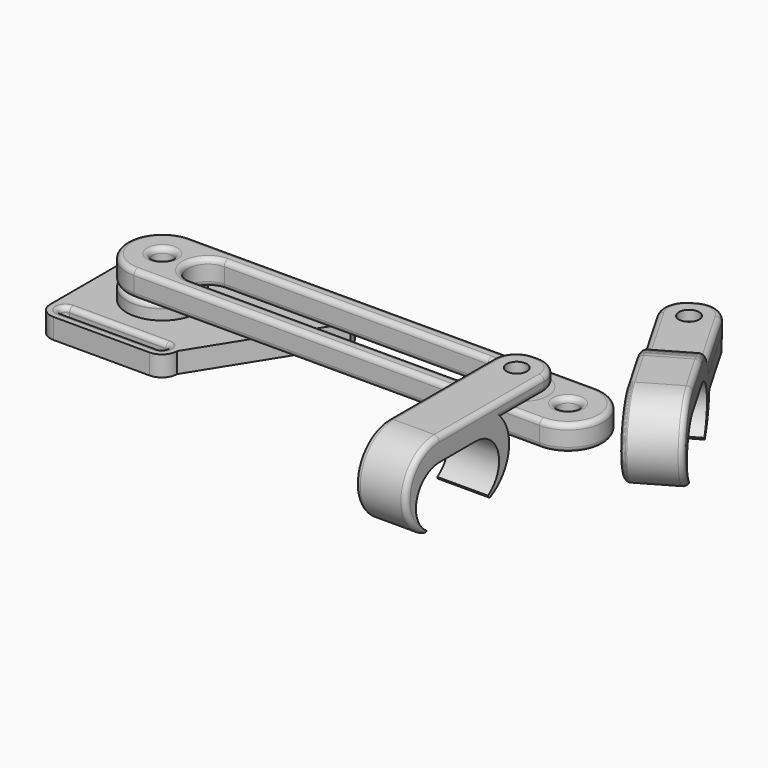
from build123d import *

# Parameters (mm, degrees)
SKETCH_R                = 4.5
PAD_DEPTH               = 4
SKETCH001_R             = 7
SKETCH001_R_2           = 2
PAD001_DEPTH            = 3
FILLET_R                = 0.9
FILLET001_R             = 1
SKETCH002_R             = 2
PAD002_DEPTH            = 5
FILLET002_R             = 1
PAD003_DEPTH            = 10
SKETCH004_R             = 2
POCKET_DEPTH            = 5
FILLET003_R             = 4.5
FILLET004_R             = 1
PAD004_DEPTH            = 10
PAD005_DEPTH            = 10
SKETCH007_R             = 2
POCKET001_DEPTH         = 5
FILLET005_R             = 4.5
FILLET006_R             = 1
BODY003_PLACEMENT_ANGLE = 210
PAD006_DEPTH            = 10
PAD007_DEPTH            = 10
SKETCH009_R             = 2
POCKET002_DEPTH         = 5
FILLET007_R             = 4.5
FILLET008_R             = 1
BODY004_PLACEMENT_ANGLE = 210
SKETCH011_R             = 4.5
PAD009_DEPTH            = 4
SKETCH012_R             = 7
SKETCH012_R_2           = 2
PAD008_DEPTH            = 3
FILLET009_R             = 1
SKETCH013_R             = 2
PAD010_DEPTH            = 5
FILLET010_R             = 1


with BuildPart() as strap_mount:
    # Sketch → Pad (new body)
    with BuildSketch(Plane.XY):
        with BuildLine():
            Line((0, 3), (0, 27))
            ThreePointArc((3, 30), (0.87868, 29.12132), (0, 27))
            Line((3, 30), (22, 30))
            ThreePointArc((25, 27), (24.12132, 29.12132), (22, 30))
            Line((25, 27), (25, 3))
            ThreePointArc((22, 0), (24.12132, 0.87868), (25, 3))
            Line((22, 0), (3, 0))
            ThreePointArc((0, 3), (0.87868, 0.87868), (3, 0))
        make_face()
        with Locations((12.5, 15)):
            Circle(SKETCH_R, mode=Mode.SUBTRACT)
        with BuildLine():
            ThreePointArc((3, 4), (2, 3), (3, 2))
            Line((3, 2), (22, 2))
            ThreePointArc((22, 2), (23, 3), (22, 4))
            Line((3, 4), (22, 4))
        make_face(mode=Mode.SUBTRACT)
        with BuildLine():
            ThreePointArc((3, 28), (2, 27), (3, 26))
            Line((3, 26), (22, 26))
            ThreePointArc((22, 26), (23, 27), (22, 28))
            Line((3, 28), (22, 28))
        make_face(mode=Mode.SUBTRACT)
    extrude(amount=PAD_DEPTH)

    # Sketch001 (on Face19 of Pad) → Pad001 (join)
    with BuildSketch(Plane.XY.offset(4)):
        with Locations((12.5, 15)):
            Circle(SKETCH001_R)
        with Locations((12.5, 15)):
            Circle(SKETCH001_R_2, mode=Mode.SUBTRACT)
    extrude(amount=PAD001_DEPTH)

    # Fillet
    fillet_edges = [strap_mount.edges().sort_by_distance(p)[0] for p in [
        (12.5, 28, 0),
        (23, 27, 4),
        (23, 3, 4),
        (23, 3, 0),
        (5.5, 15, 7),
        (10.5, 15, 4),
    ]]
    fillet(fillet_edges, radius=FILLET_R)

    # Fillet001
    fillet001_edges = [strap_mount.edges().sort_by_distance(p)[0] for p in [
        (25, 15, 4),
        (0, 15, 0),
        (8, 15, 0),
    ]]
    fillet(fillet001_edges, radius=FILLET001_R)


with BuildPart() as arm:
    # Sketch002 → Pad002 (new body)
    with BuildSketch(Plane.XY):
        with BuildLine():
            ThreePointArc((0, 7), (-7, 0), (0, -7))
            Line((70, -7), (0, -7))
            ThreePointArc((70, -7), (77, 0), (70, 7))
            Line((0, 7), (70, 7))
        make_face()
        Circle(SKETCH002_R, mode=Mode.SUBTRACT)
        with Locations((70, 0)):
            Circle(SKETCH002_R, mode=Mode.SUBTRACT)
        with BuildLine():
            ThreePointArc((9, 4), (5, 0), (9, -4))
            Line((9, -4), (61, -4))
            ThreePointArc((61, -4), (65, 0), (61, 4))
            Line((9, 4), (61, 4))
        make_face(mode=Mode.SUBTRACT)
    extrude(amount=PAD002_DEPTH)

    # Fillet002
    fillet002_edges = [arm.edges().sort_by_distance(p)[0] for p in [
        (35, 4, 5),
        (-7, 0, 5),
        (-2, 0, 5),
        (68, 0, 5),
        (35, -7, 0),
        (35, -4, 0),
    ]]
    fillet(fillet002_edges, radius=FILLET002_R)


with BuildPart() as arm_1:
    # Body001 placement: moved
    add(arm.part.moved(Location((12.5, 15, 7))))


with BuildPart() as obj1:
    # Sketch003 → Pad003 (new body)
    with BuildSketch(Plane.YZ):
        with BuildLine():
            ThreePointArc((0, 0), (-5.534812, -4.191681), (-3, -10.655354))
            ThreePointArc((-3.5, -11.155354), (-3.146447, -11.008908), (-3, -10.655354))
            ThreePointArc((0, 4.5), (-8.020912, -1.925716), (-3.5, -11.155354))
            Line((0, 4.5), (30.349291, 4.5))
            Line((30.349291, 4.5), (30.349291, 1.5))
            Line((15.349291, 1.5), (30.349291, 1.5))
            ThreePointArc((12.5, -11.155354), (17.018206, -5.524177), (15.349291, 1.5))
            ThreePointArc((12, -10.655354), (12.146447, -11.008908), (12.5, -11.155354))
            ThreePointArc((12, -10.655354), (14.534812, -4.191681), (9, 0))
            Line((0, 0), (9, 0))
        make_face()
    extrude(amount=PAD003_DEPTH)

    # Sketch004 (on Face8 of Pad003) → Pocket (cut)
    with BuildSketch(Plane.YX.offset(-1.5)):
        with Locations((25.349291, 5)):
            Circle(SKETCH004_R)
    extrude(amount=-POCKET_DEPTH, mode=Mode.SUBTRACT)

    # Fillet003
    fillet003_edges = [obj1.edges().sort_by_distance(p)[0] for p in [
        (0, 30.349291, 3),
        (10, 30.349291, 3),
    ]]
    fillet(fillet003_edges, radius=FILLET003_R)

    # Fillet004
    fillet004_edges = [obj1.edges().sort_by_distance(p)[0] for p in [
        (10, 12.924646, 4.5),
        (10, 20.599291, 1.5),
    ]]
    fillet(fillet004_edges, radius=FILLET004_R)


with BuildPart() as obj1_1:
    # Body002 placement: moved
    add(obj1.part.moved(Location((77.5, -10.5, 10.5))))


with BuildPart() as obj2:
    # Sketch005 → Pad004 (new body)
    with BuildSketch(Plane.YZ):
        with BuildLine():
            ThreePointArc((0, 0), (-5.534812, -4.191681), (-3, -10.655354))
            ThreePointArc((-3.5, -11.155354), (-3.146447, -11.008908), (-3, -10.655354))
            ThreePointArc((0, 4.5), (-8.020912, -1.925716), (-3.5, -11.155354))
            Line((0, 4.5), (9.000023, 4.5))
            ThreePointArc((12.5, -11.155354), (17.020914, -1.925728), (9.000023, 4.5))
            ThreePointArc((12, -10.655354), (12.146447, -11.008908), (12.5, -11.155354))
            ThreePointArc((12, -10.655354), (14.534812, -4.191681), (9, 0))
            Line((0, 0), (9, 0))
        make_face()
    extrude(amount=PAD004_DEPTH)

    # Sketch006 (on Face9 of Pad004) → Pad005 (join)
    with BuildSketch(Plane(origin=(0, 0, 0), x_dir=(0, 1, 0), z_dir=(-1, 0, 0))):
        with BuildLine():
            ThreePointArc((-8.218917, 3.718917), (-7.78342, 1.079037), (-6.523082, -1.281083))
            Line((-6.523082, -1.281083), (-25.218917, -1.281083))
            Line((-25.218917, 3.718917), (-25.218917, -1.281083))
            Line((-8.218917, 3.718917), (-25.218917, 3.718917))
        make_face()
    extrude(amount=-PAD005_DEPTH)

    # Sketch007 (on Face14 of Pad005) → Pocket001 (cut)
    with BuildSketch(Plane(origin=(0, 0, 1.281083), x_dir=(0, -1, 0), z_dir=(0, 0, 1))):
        with Locations((20.218917, 5)):
            Circle(SKETCH007_R)
    extrude(amount=-POCKET001_DEPTH, mode=Mode.SUBTRACT)

    # Fillet005
    fillet005_edges = [obj2.edges().sort_by_distance(p)[0] for p in [
        (0, -25.218917, -1.218917),
        (10, -25.218917, -1.218917),
    ]]
    fillet(fillet005_edges, radius=FILLET005_R)

    # Fillet006
    fillet006_edges = [obj2.edges().sort_by_distance(p)[0] for p in [
        (10, -13.620999, 1.281083),
        (10, -14.468917, -3.718917),
        (10, 4.500011, 4.5),
        (0, 4.500011, 4.5),
    ]]
    fillet(fillet006_edges, radius=FILLET006_R)


with BuildPart() as obj2_1:
    # Body003 placement: moved
    add(obj2.part.moved(Location((124.583648, 7.75, 28.5))).rotate(Axis((124.583648, 7.75, 28.5), (0, 0, 1)), BODY003_PLACEMENT_ANGLE))


with BuildPart() as obj3:
    # Sketch008 → Pad006 (new body)
    with BuildSketch(Plane.YZ):
        with BuildLine():
            ThreePointArc((0, 0), (-5.534812, -4.191681), (-3, -10.655354))
            ThreePointArc((-3.5, -11.155354), (-3.146447, -11.008908), (-3, -10.655354))
            ThreePointArc((0, 4.5), (-8.020912, -1.925716), (-3.5, -11.155354))
            Line((0, 4.5), (9.000023, 4.5))
            ThreePointArc((12.5, -11.155354), (17.020914, -1.925728), (9.000023, 4.5))
            ThreePointArc((12, -10.655354), (12.146447, -11.008908), (12.5, -11.155354))
            ThreePointArc((12, -10.655354), (14.534812, -4.191681), (9, 0))
            Line((0, 0), (9, 0))
        make_face()
    extrude(amount=PAD006_DEPTH)

    # Sketch010 (on Face9 of Pad006) → Pad007 (join)
    with BuildSketch(Plane(origin=(0, 0, 0), x_dir=(0, 1, 0), z_dir=(-1, 0, 0))):
        with BuildLine():
            ThreePointArc((-7.971863, 5.718917), (-8.202133, 3.193937), (-7.651836, 0.718917))
            Line((-7.651836, 0.718917), (-24.971863, 0.718917))
            Line((-24.971863, 5.718917), (-24.971863, 0.718917))
            Line((-7.971863, 5.718917), (-24.971863, 5.718917))
        make_face()
    extrude(amount=-PAD007_DEPTH)

    # Sketch009 (on Face14 of Pad007) → Pocket002 (cut)
    with BuildSketch(Plane(origin=(0, 0, -0.718917), x_dir=(0, -1, 0), z_dir=(0, 0, 1))):
        with Locations((19.971863, 5)):
            Circle(SKETCH009_R)
    extrude(amount=-POCKET002_DEPTH, mode=Mode.SUBTRACT)

    # Fillet007
    fillet007_edges = [obj3.edges().sort_by_distance(p)[0] for p in [
        (0, -24.971863, -3.218917),
        (10, -24.971863, -3.218917),
    ]]
    fillet(fillet007_edges, radius=FILLET007_R)

    # Fillet008
    fillet008_edges = [obj3.edges().sort_by_distance(p)[0] for p in [
        (10, -14.06185, -0.718917),
        (10, -14.221863, -5.718917),
        (10, 4.500011, 4.5),
        (0, 4.500011, 4.5),
    ]]
    fillet(fillet008_edges, radius=FILLET008_R)


with BuildPart() as obj3_1:
    # Body004 placement: moved
    add(obj3.part.moved(Location((124.583648, 7.75, 28.5))).rotate(Axis((124.583648, 7.75, 28.5), (0, 0, 1)), BODY004_PLACEMENT_ANGLE))


with BuildPart() as v1_1strap_mount:
    # Sketch011 → Pad009 (new body)
    with BuildSketch(Plane.XY):
        with BuildLine():
            Line((0, 3), (0, 27))
            ThreePointArc((3, 30), (0.87868, 29.12132), (0, 27))
            Line((3, 30), (37, 30))
            ThreePointArc((40, 27), (39.12132, 29.12132), (37, 30))
            Line((40, 27), (25, 3))
            ThreePointArc((22, 0), (24.12132, 0.87868), (25, 3))
            Line((22, 0), (3, 0))
            ThreePointArc((0, 3), (0.87868, 0.87868), (3, 0))
        make_face()
        with Locations((12.5, 15)):
            Circle(SKETCH011_R, mode=Mode.SUBTRACT)
        with BuildLine():
            ThreePointArc((3, 4), (2, 3), (3, 2))
            Line((3, 2), (22, 2))
            ThreePointArc((22, 2), (23, 3), (22, 4))
            Line((3, 4), (22, 4))
        make_face(mode=Mode.SUBTRACT)
        with BuildLine():
            ThreePointArc((3, 28), (2, 27), (3, 26))
            Line((3, 26), (22, 26))
            ThreePointArc((22, 26), (23, 27), (22, 28))
            Line((3, 28), (22, 28))
        make_face(mode=Mode.SUBTRACT)
    extrude(amount=PAD009_DEPTH)

    # Sketch012 (on Face19 of Pad009) → Pad008 (join)
    with BuildSketch(Plane.XY.offset(4)):
        with Locations((12.5, 15)):
            Circle(SKETCH012_R)
        with Locations((12.5, 15)):
            Circle(SKETCH012_R_2, mode=Mode.SUBTRACT)
    extrude(amount=PAD008_DEPTH)

    # Fillet009
    fillet009_edges = [v1_1strap_mount.edges().sort_by_distance(p)[0] for p in [
        (12.5, 2, 0),
        (8, 15, 0),
        (12.5, 26, 0),
        (5.5, 15, 7),
        (12.5, 2, 4),
        (12.5, 26, 4),
    ]]
    fillet(fillet009_edges, radius=FILLET009_R)


with BuildPart() as v1_1arm80mm:
    # Sketch013 → Pad010 (new body)
    with BuildSketch(Plane.XY):
        with BuildLine():
            ThreePointArc((0, 7), (-7, 0), (0, -7))
            Line((80, -7), (0, -7))
            ThreePointArc((80, -7), (87, 0), (80, 7))
            Line((0, 7), (80, 7))
        make_face()
        Circle(SKETCH013_R, mode=Mode.SUBTRACT)
        with Locations((80, 0)):
            Circle(SKETCH013_R, mode=Mode.SUBTRACT)
        with BuildLine():
            ThreePointArc((9, 4), (5, 0), (9, -4))
            Line((9, -4), (71, -4))
            ThreePointArc((71, -4), (75, 0), (71, 4))
            Line((9, 4), (71, 4))
        make_face(mode=Mode.SUBTRACT)
    extrude(amount=PAD010_DEPTH)

    # Fillet010
    fillet010_edges = [v1_1arm80mm.edges().sort_by_distance(p)[0] for p in [
        (40, 4, 5),
        (-7, 0, 5),
        (-2, 0, 5),
        (78, 0, 5),
        (40, -7, 0),
        (40, -4, 0),
    ]]
    fillet(fillet010_edges, radius=FILLET010_R)


with BuildPart() as v1_1arm80mm_1:
    # Body006 placement: moved
    add(v1_1arm80mm.part.moved(Location((12.5, 15, 7))))


solid = Compound([strap_mount.part, arm_1.part, obj1_1.part, obj2_1.part, obj3_1.part, v1_1strap_mount.part, v1_1arm80mm_1.part])
